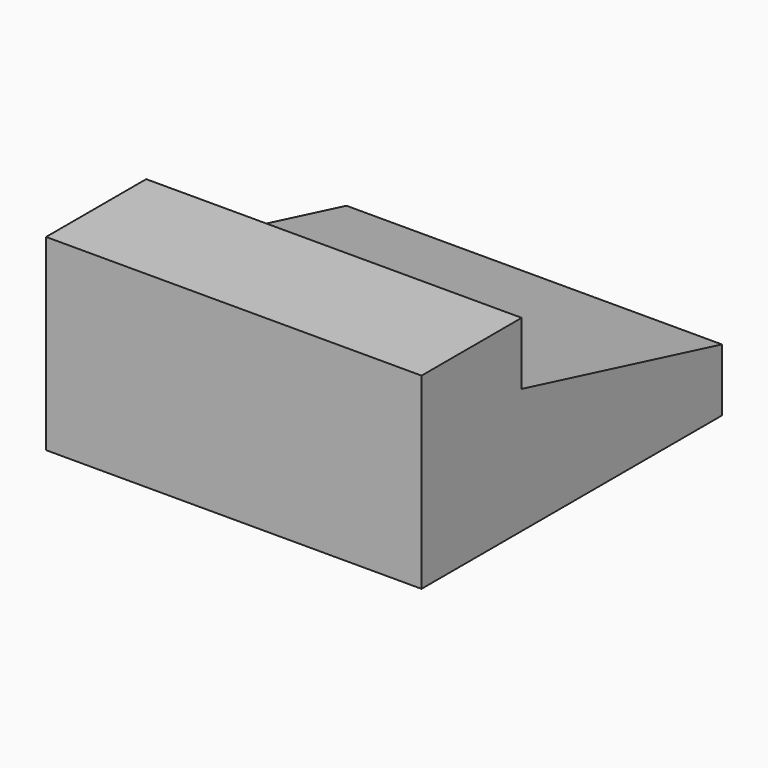
from build123d import *

# Parameters (mm, degrees)
F0_W     = 30
F0_H     = 30
F1_DEPTH = 15
F3_DEPTH = 30.001


with BuildPart() as f1:
    # F0 (on Top) → F1 (new body)
    with BuildSketch(Plane.XY):
        with Locations((-31.776512, 32.623932)):
            Rectangle(F0_W, F0_H)
    extrude(amount=F1_DEPTH)

    # F2 (on face) → F3 (cut, through all)
    with BuildSketch(Plane.YZ.offset(-16.776512)):
        Polygon((27.623932, 10), (47.623932, 5), (47.623932, 15), (27.623932, 15), align=None)
    extrude(amount=-F3_DEPTH, mode=Mode.SUBTRACT)


solid = f1.part
